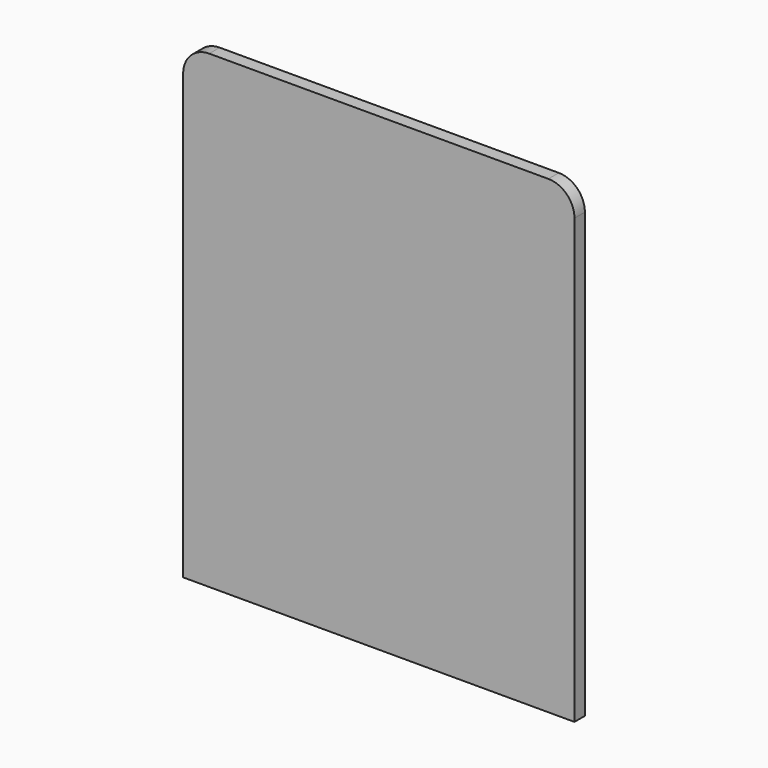
from build123d import *

# Parameters (mm, degrees)
F1_DEPTH = 3.175


with BuildPart() as f1:
    # F0 (on Front) → F1 (new body)
    with BuildSketch(Plane.XZ):
        with BuildLine():
            Line((0, 107.95), (0, 0))
            Line((0, 0), (95.25, 0))
            Line((95.25, 0), (95.25, 107.95))
            ThreePointArc((95.25, 107.95), (93.390128, 112.440128), (88.9, 114.3))
            Line((88.9, 114.3), (6.35, 114.3))
            ThreePointArc((6.35, 114.3), (1.859872, 112.440128), (0, 107.95))
        make_face()
    extrude(amount=F1_DEPTH)


solid = f1.part
